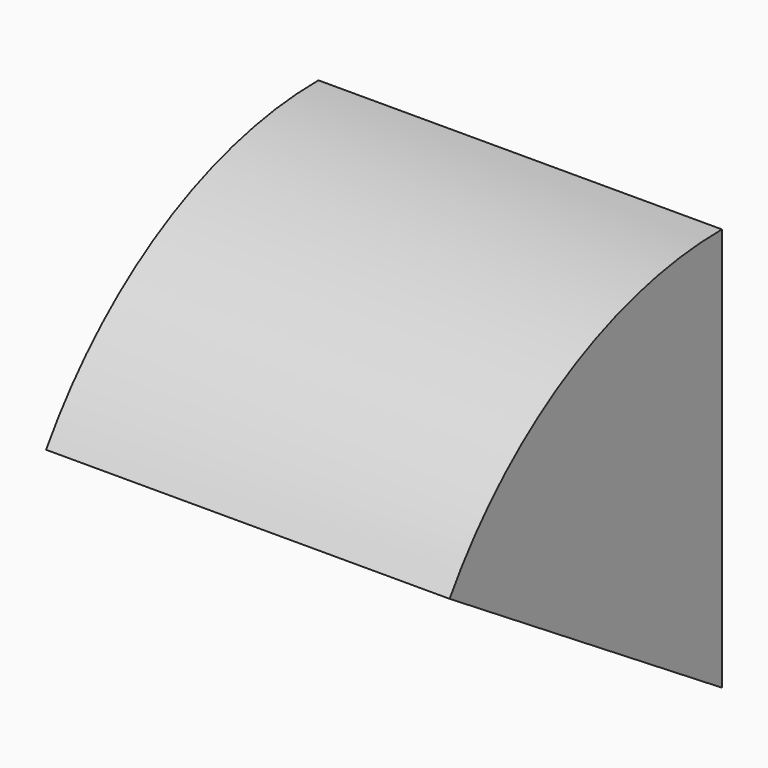
from build123d import *

# Parameters (mm, degrees)
F0_W     = 32
F0_H     = 32
F1_ANGLE = 57.53
F2_R     = 1.5
F3_DEPTH = 8
F4_R     = 1.5
F5_DEPTH = 8


with BuildPart() as f1:
    # F0 (on Front) → F1 (revolve)
    with BuildSketch(Plane.XZ):
        with Locations((-1.223468, 8.916048)):
            Rectangle(F0_W, F0_H)
    revolve(axis=Axis((-1.223468, 0, -7.083952), (1, 0, 0)), revolution_arc=F1_ANGLE)

    # F2 (on face) → F3 (cut)
    with BuildSketch(Plane(origin=(0, 0, 0), x_dir=(-1, 0, 0), z_dir=(0, 1, 0))):
        with Locations((-6.776532, 8.916048)):
            Circle(F2_R)
        with Locations((9.223468, 8.916048)):
            Circle(F2_R)
    extrude(amount=-F3_DEPTH, mode=Mode.SUBTRACT)

    # F4 (on face) → F5 (cut)
    with BuildSketch(Plane(origin=(0, -3.208551, -5.042241), x_dir=(1, 0, 0), z_dir=(0, -0.536858, -0.843673))):
        with Locations((6.776532, 12.196924)):
            Circle(F4_R)
        with Locations((-9.223468, 12.196924)):
            Circle(F4_R)
    extrude(amount=-F5_DEPTH, mode=Mode.SUBTRACT)


solid = f1.part
